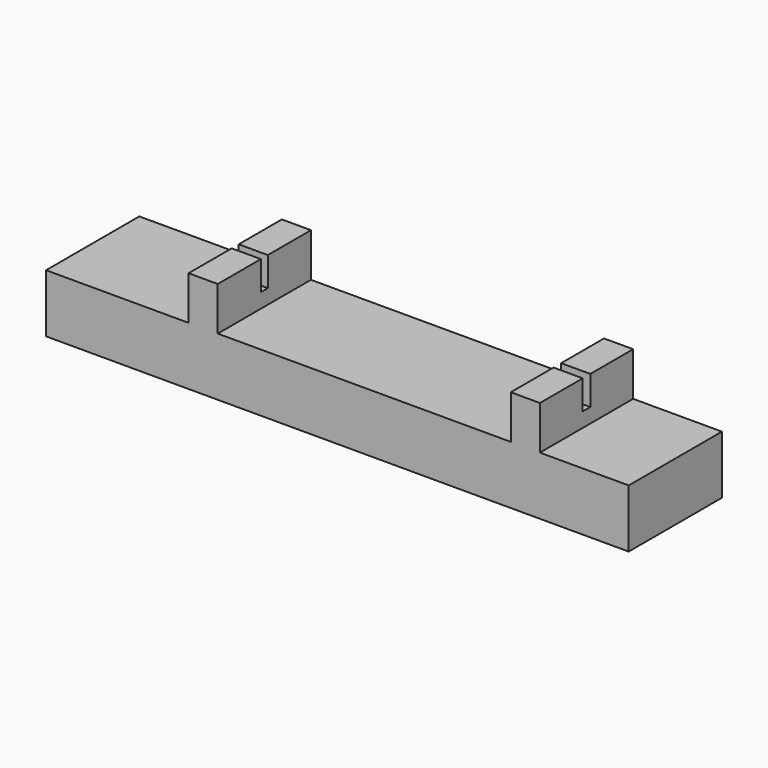
from build123d import *

# Parameters (mm, degrees)
F0_W     = 200
F0_H     = 20
F1_DEPTH = 40
F2_W     = 10
F2_H     = 40
F3_DEPTH = 10
F4_DEPTH = 15
F5_W     = 10
F5_H     = 3
F6_DEPTH = 10
F7_W     = 10
F7_H     = 3.26613
F8_DEPTH = 10


with BuildPart() as f1:
    # F0 (on Front) → F1 (new body)
    with BuildSketch(Plane.XZ):
        Rectangle(F0_W, F0_H)
    extrude(amount=F1_DEPTH)

    # F2 (on face) → F3 (join)
    with BuildSketch(Plane.XY.offset(10)):
        with Locations((64.525982, -20)):
            Rectangle(F2_W, F2_H)
    extrude(amount=F3_DEPTH)

    # F2 (on face) → F4 (join)
    with BuildSketch(Plane.XY.offset(10)):
        with Locations((64.525982, -20)):
            Rectangle(F2_W, F2_H)
        with Locations((-46.073499, -20)):
            Rectangle(F2_W, F2_H)
    extrude(amount=F4_DEPTH)

    # F5 (on face) → F6 (cut)
    with BuildSketch(Plane.XY.offset(25)):
        with Locations((-46.073499, -20)):
            Rectangle(F5_W, F5_H)
    extrude(amount=-F6_DEPTH, mode=Mode.SUBTRACT)

    # F7 (on face) → F8 (cut)
    with BuildSketch(Plane.XY.offset(25)):
        with Locations((64.525982, -20.022178)):
            Rectangle(F7_W, F7_H)
    extrude(amount=-F8_DEPTH, mode=Mode.SUBTRACT)


solid = f1.part
